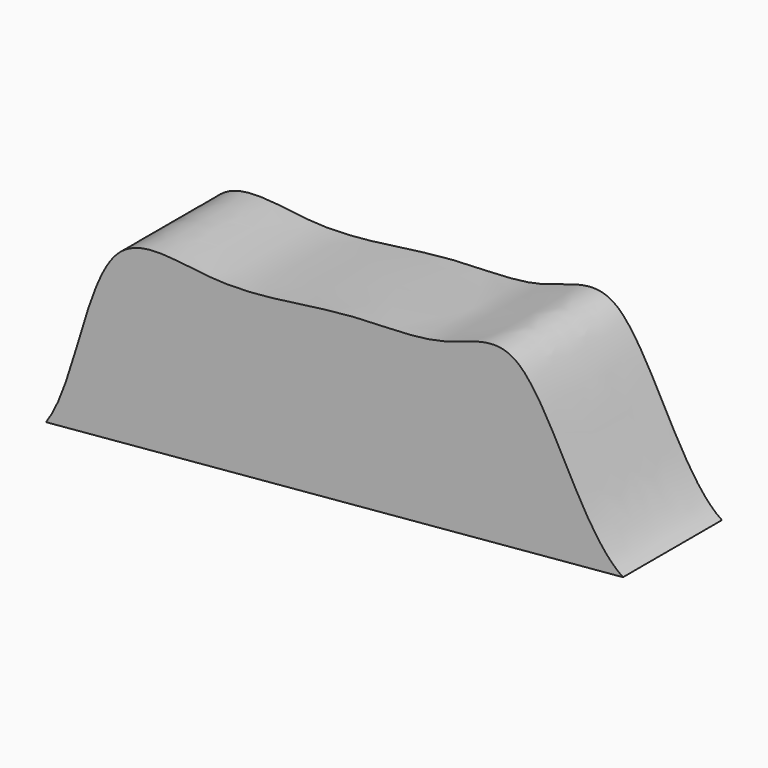
from build123d import *

# Parameters (mm, degrees)
F1_DEPTH = 38.1


with BuildPart() as f1:
    # F0 (on Front) → F1 (new body)
    with BuildSketch(Plane.XZ):
        with BuildLine():
            Line((-122.8389866643, -30.3746408513), (54.9610133357, -14.6202093059))
            add(Edge.make_bspline(
                [(54.9610133357, -14.6202093059), (41.9012466578, -6.1361298091), (27.140350462, 45.4282527472), (-0.7511636723, 28.3746561727), (-30.6356734242, 30.6218207922), (-69.0099252076, 21.6373892806), (-108.7849362514, 34.908834704), (-113.723576803, -17.5442936162), (-122.8389866643, -30.3746408513)],
                knots=[0, 0, 0, 0, 0.2049389514, 0.3306217596, 0.4781521495, 0.6484474398, 0.7967560145, 1, 1, 1, 1], degree=3))
        make_face()
    extrude(amount=F1_DEPTH)


solid = f1.part
